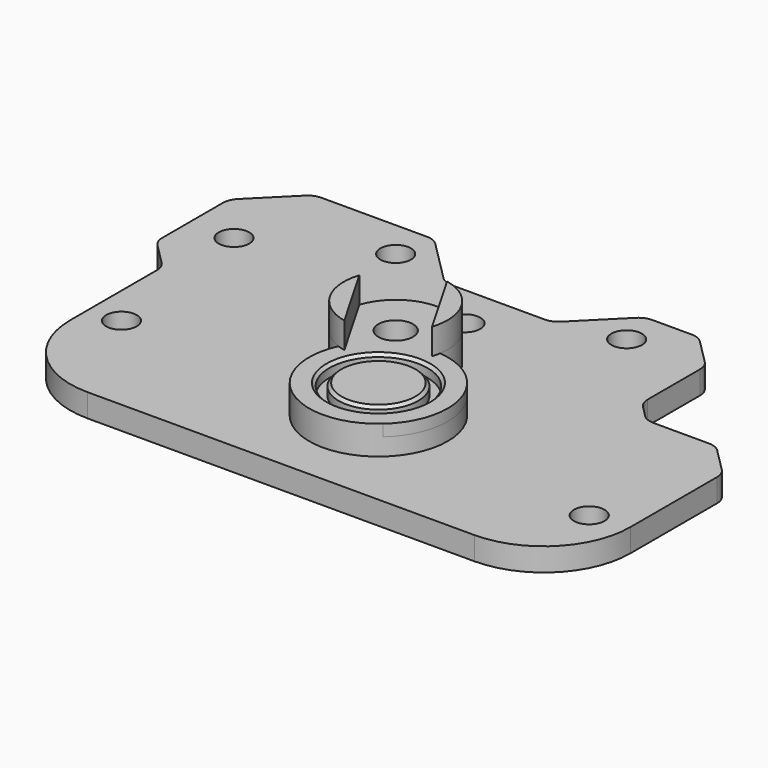
from build123d import *

# Parameters (mm, degrees)
SKETCH_R        = 12
SKETCH_R_2      = 8.5
PAD_DEPTH       = 2
SKETCH001_R     = 8.5
SKETCH001_R_2   = 3
PAD001_DEPTH    = 5
SKETCH002_R     = 8.5
PAD002_DEPTH    = 3
SKETCH003_R     = 6.9
PAD003_DEPTH    = 2
PAD004_DEPTH    = 4.5
SKETCH006_R     = 3
POCKET_DEPTH    = 5
SKETCH005_R     = 2.65
PAD005_DEPTH    = 4
POCKET001_DEPTH = 5
FILLET_R        = 15
CHAMFER_SIZE    = 0.5
FILLET001_R     = 3


with BuildPart() as part:
    # Sketch → Pad (new body)
    with BuildSketch(Plane.XY):
        Circle(SKETCH_R)
        Circle(SKETCH_R_2, mode=Mode.SUBTRACT)
    extrude(amount=PAD_DEPTH)

    # Sketch001 (on Face4 of Pad) → Pad001 (join)
    with BuildSketch(Plane.XY.offset(2)):
        with BuildLine():
            ThreePointArc((1.128054, 11.946861), (-12.25, 21.217622), (-10.910313, 4.996507))
            ThreePointArc((-10.910313, 4.996507), (6, -10.392305), (1.128054, 11.946861))
        make_face()
        Circle(SKETCH001_R, mode=Mode.SUBTRACT)
        with Locations((-7.75, 13.423394)):
            Circle(SKETCH001_R_2, mode=Mode.SUBTRACT)
    extrude(amount=-PAD001_DEPTH)

    # Sketch002 (on Face6 of Pad001) → Pad002 (join)
    with BuildSketch(Plane(origin=(0, 0, -3), x_dir=(1, 0, 0), z_dir=(0, 0, -1))):
        Circle(SKETCH002_R)
    extrude(amount=-PAD002_DEPTH)

    # Sketch003 (on Face11 of Pad002) → Pad003 (join)
    with BuildSketch(Plane.XY):
        Circle(SKETCH003_R)
    extrude(amount=PAD003_DEPTH)

    # Sketch004 (on Face7 of Pad003) → Pad004 (join)
    with BuildSketch(Plane.XY.offset(2)):
        with BuildLine():
            Line((-16.300254, 16.232869), (-9.59205, 4.613919))
            ThreePointArc((-16.300254, 16.232869), (-15.544229, 8.923394), (-9.59205, 4.613919))
        make_face()
        with BuildLine():
            Line((0.800254, 10.613919), (-5.90795, 22.232869))
            ThreePointArc((0.800254, 10.613919), (0.044229, 17.923394), (-5.90795, 22.232869))
        make_face()
    extrude(amount=PAD004_DEPTH)

    # Sketch006 → Pocket (cut)
    with BuildSketch(Plane.XY.offset(-3)):
        with Locations((-7.75, 13.423394)):
            Circle(SKETCH006_R)
    extrude(amount=-POCKET_DEPTH, mode=Mode.SUBTRACT)

    # Sketch005 (on Face19 of Pad004) → Pad005 (join)
    with BuildSketch(Plane.XY.offset(-3)):
        Polygon((-50, -19.207161), (47, -19.207161), (47, 15.792839), (41.233675, 21.559164), (29.118887, 21.559164), (25.481262, 25.196789), (25.481262, 39.003202), (19.473982, 45.010482), (10.187135, 45.010482), (1.204676, 36.028023), (-17.363308, 36.028023), (-26.345768, 45.010482), (-47.11485, 45.010482), (-55.346152, 36.779179), (-55.346152, 21.138991), (-50, 15.792839), align=None)
        with Locations((-44.5, 0)):
            Circle(SKETCH005_R, mode=Mode.SUBTRACT)
        with Locations((40.5, -5)):
            Circle(SKETCH005_R, mode=Mode.SUBTRACT)
        with Locations((-47.75, 28.423394)):
            Circle(SKETCH005_R, mode=Mode.SUBTRACT)
        with Locations((-7.75, 28.423394)):
            Circle(SKETCH005_R, mode=Mode.SUBTRACT)
        with Locations((-27.75, 38.423394)):
            Circle(SKETCH005_R, mode=Mode.SUBTRACT)
        with Locations((12.25, 38.423394)):
            Circle(SKETCH005_R, mode=Mode.SUBTRACT)
    extrude(amount=-PAD005_DEPTH)

    # Sketch008 (on Face5 of Pad005) → Pocket001 (cut)
    with BuildSketch(Plane(origin=(0, 0, -7), x_dir=(1, 0, 0), z_dir=(0, 0, -1))):
        Polygon((-10.75, -8.227241), (-13.75, -13.423394), (-10.75, -18.619546), (-4.75, -18.619546), (-1.75, -13.423394), (-4.75, -8.227241), align=None)
    extrude(amount=-POCKET001_DEPTH, mode=Mode.SUBTRACT)

    # Fillet
    fillet_edges = [part.edges().sort_by_distance(p)[0] for p in [
        (-50, -19.207161, -5),
        (47, -19.207161, -5),
    ]]
    fillet(fillet_edges, radius=FILLET_R)

    # Chamfer
    chamfer_edges = [part.edges().sort_by_distance(p)[0] for p in [
        (-6.9, 0, 2),
        (-8.5, 0, 2),
    ]]
    chamfer(chamfer_edges, length=CHAMFER_SIZE)

    # Fillet001
    fillet001_edges = [part.edges().sort_by_distance(p)[0] for p in [
        (47, 15.792839, -5),
        (41.233675, 21.559164, -5),
        (29.118887, 21.559164, -5),
        (25.481262, 25.196789, -5),
        (25.481262, 39.003202, -5),
        (19.473982, 45.010482, -5),
        (10.187135, 45.010482, -5),
        (1.204676, 36.028023, -5),
        (-17.363308, 36.028023, -5),
        (-26.345768, 45.010482, -5),
        (-47.11485, 45.010482, -5),
        (-55.346152, 36.779179, -5),
        (-55.346152, 21.138991, -5),
        (-50, 15.792839, -5),
    ]]
    fillet(fillet001_edges, radius=FILLET001_R)


solid = part.part
